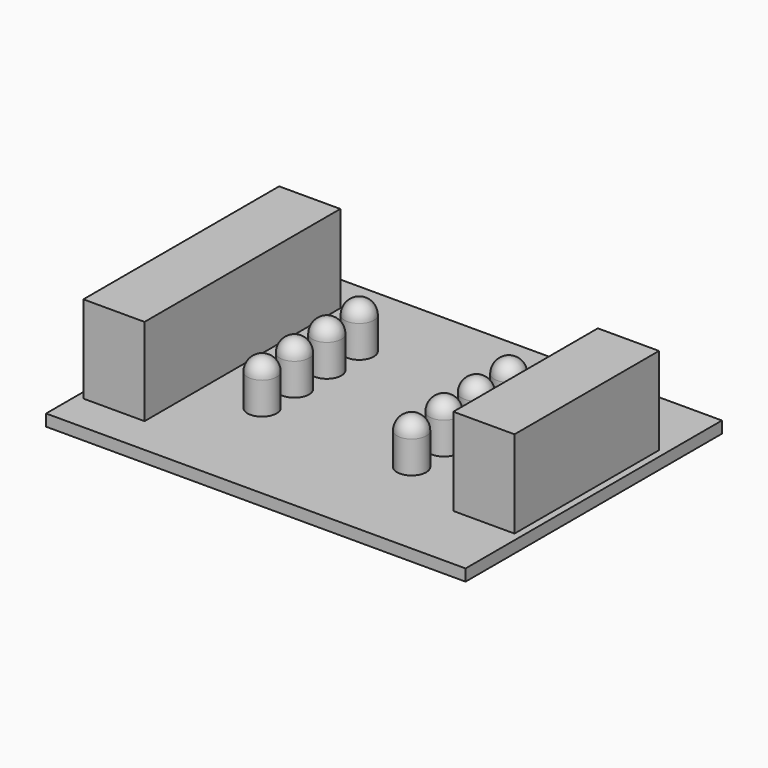
from build123d import *

# Parameters (mm, degrees)
F0_W     = 72
F0_H     = 55
F0_R     = 2.5
F0_W_2   = 10.5
F0_H_2   = 42
F0_H_3   = 31
F1_DEPTH = 2
F2_DEPTH = 17
F3_DEPTH = 10
F4_R     = 2.5


with BuildPart() as f1:
    # F0 (on Top) → F1 (new body)
    with BuildSketch(Plane.XY):
        with Locations((36, 27.5)):
            Rectangle(F0_W, F0_H)
        with Locations((21.618534, 19.316525)):
            Circle(F0_R, mode=Mode.SUBTRACT)
        with Locations((21.576459, 26.316399)):
            Circle(F0_R, mode=Mode.SUBTRACT)
        with Locations((47.944249, 18.500125)):
            Circle(F0_R, mode=Mode.SUBTRACT)
        with Locations((47.903061, 25.500003)):
            Circle(F0_R, mode=Mode.SUBTRACT)
        with Locations((6.45, 27.5)):
            Rectangle(F0_W_2, F0_H_2, mode=Mode.SUBTRACT)
        with Locations((21.534385, 33.316272)):
            Circle(F0_R, mode=Mode.SUBTRACT)
        with Locations((21.49231, 40.316146)):
            Circle(F0_R, mode=Mode.SUBTRACT)
        with Locations((47.861874, 32.499882)):
            Circle(F0_R, mode=Mode.SUBTRACT)
        with Locations((47.820686, 39.499761)):
            Circle(F0_R, mode=Mode.SUBTRACT)
        with Locations((65.55, 27.5)):
            Rectangle(F0_W_2, F0_H_3, mode=Mode.SUBTRACT)
    extrude(amount=F1_DEPTH)

    # F0 (on Top) → F2 (join)
    with BuildSketch(Plane.XY):
        with Locations((65.55, 27.5)):
            Rectangle(F0_W_2, F0_H_3)
        with Locations((6.45, 27.5)):
            Rectangle(F0_W_2, F0_H_2)
    extrude(amount=F2_DEPTH)

    # F0 (on Top) → F3 (join)
    with BuildSketch(Plane.XY):
        with Locations((21.49231, 40.316146)):
            Circle(F0_R)
        with Locations((21.534385, 33.316272)):
            Circle(F0_R)
        with Locations((21.576459, 26.316399)):
            Circle(F0_R)
        with Locations((21.618534, 19.316525)):
            Circle(F0_R)
        with Locations((47.820686, 39.499761)):
            Circle(F0_R)
        with Locations((47.861874, 32.499882)):
            Circle(F0_R)
        with Locations((47.903061, 25.500003)):
            Circle(F0_R)
        with Locations((47.944249, 18.500125)):
            Circle(F0_R)
    extrude(amount=F3_DEPTH)

    # F4
    f4_edges = [f1.edges().sort_by_distance(p)[0] for p in [
        (18.99231, 40.316146, 10),
        (19.034385, 33.316272, 10),
        (19.076459, 26.316399, 10),
        (19.118534, 19.316525, 10),
        (45.320686, 39.499761, 10),
        (45.361874, 32.499882, 10),
        (45.403061, 25.500003, 10),
        (45.444249, 18.500125, 10),
    ]]
    fillet(f4_edges, radius=F4_R)


solid = f1.part
